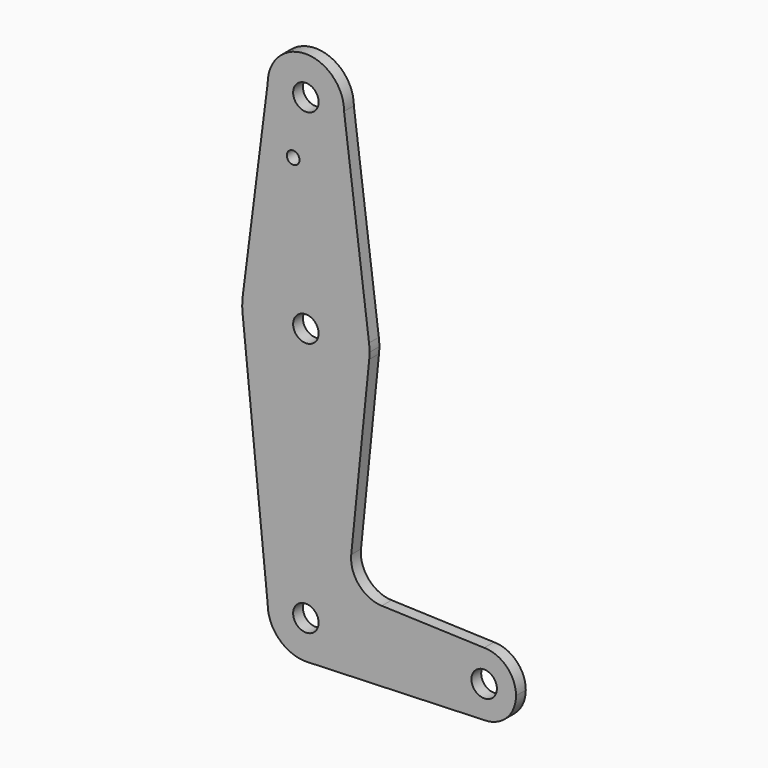
from build123d import *

# Parameters (mm, degrees)
F0_R     = 3.175
F0_R_2   = 1.5875
F1_DEPTH = 3.048


with BuildPart() as f1:
    # F0 (on Front) → F1 (new body)
    with BuildSketch(Plane.XZ):
        with BuildLine():
            ThreePointArc((15.794203, 61.90038), (15.854788, 62.699171), (15.875, 63.5))
            ThreePointArc((15.875, 63.5), (15.843082, 64.506168), (15.747457, 65.508289))
            ThreePointArc((15.747457, 65.508289), (0, 79.375), (-15.747457, 65.508289))
            ThreePointArc((-15.747457, 65.508289), (-15.873668, 63.705667), (-15.794203, 61.90038))
            ThreePointArc((-15.794203, 61.90038), (0, 47.625), (15.794203, 61.90038))
        make_face()
        with Locations((0, 63.5)):
            Circle(F0_R, mode=Mode.SUBTRACT)
        with BuildLine():
            ThreePointArc((-15.747457, 65.508289), (0, 79.375), (15.747457, 65.508289))
            Line((15.747457, 65.508289), (9.525, 114.3))
            ThreePointArc((9.525, 114.3), (0, 104.775), (-9.525, 114.3))
            Line((-9.525, 114.3), (-15.747457, 65.508289))
        make_face()
        with Locations((-3.175, 100.0252)):
            Circle(F0_R_2, mode=Mode.SUBTRACT)
        with BuildLine():
            Line((11.307362, 17.598546), (15.794203, 61.90038))
            ThreePointArc((15.794203, 61.90038), (0, 47.625), (-15.794203, 61.90038))
            Line((-15.794203, 61.90038), (-9.525, 0))
            ThreePointArc((-9.525, 0), (0, 9.525), (9.525, 0))
            ThreePointArc((9.525, 0), (6.854788, -6.613434), (0.341271, -9.518884))
            Line((0.341271, -9.518884), (44.45, -7.9375))
            ThreePointArc((44.45, -7.9375), (36.5125, 0), (44.45, 7.9375))
            Line((44.45, 7.9375), (18.932251, 8.852361))
            ThreePointArc((18.932251, 8.852361), (13.224458, 11.573096), (11.307362, 17.598546))
        make_face()
        with BuildLine():
            ThreePointArc((-9.525, 114.3), (0, 104.775), (9.525, 114.3))
            ThreePointArc((9.525, 114.3), (0, 123.825), (-9.525, 114.3))
        make_face()
        with Locations((0, 114.3)):
            Circle(F0_R, mode=Mode.SUBTRACT)
        with BuildLine():
            ThreePointArc((9.525, 0), (0, 9.525), (-9.525, 0))
            ThreePointArc((-9.525, 0), (-6.613434, -6.854788), (0.341271, -9.518884))
            ThreePointArc((0.341271, -9.518884), (6.854788, -6.613434), (9.525, 0))
        make_face()
        Circle(F0_R, mode=Mode.SUBTRACT)
        with BuildLine():
            ThreePointArc((52.3875, 0), (50.06266, 5.61266), (44.45, 7.9375))
            ThreePointArc((44.45, 7.9375), (36.5125, 0), (44.45, -7.9375))
            ThreePointArc((44.45, -7.9375), (50.06266, -5.61266), (52.3875, 0))
        make_face()
        with Locations((44.45, 0)):
            Circle(F0_R, mode=Mode.SUBTRACT)
    extrude(amount=F1_DEPTH)


solid = f1.part
